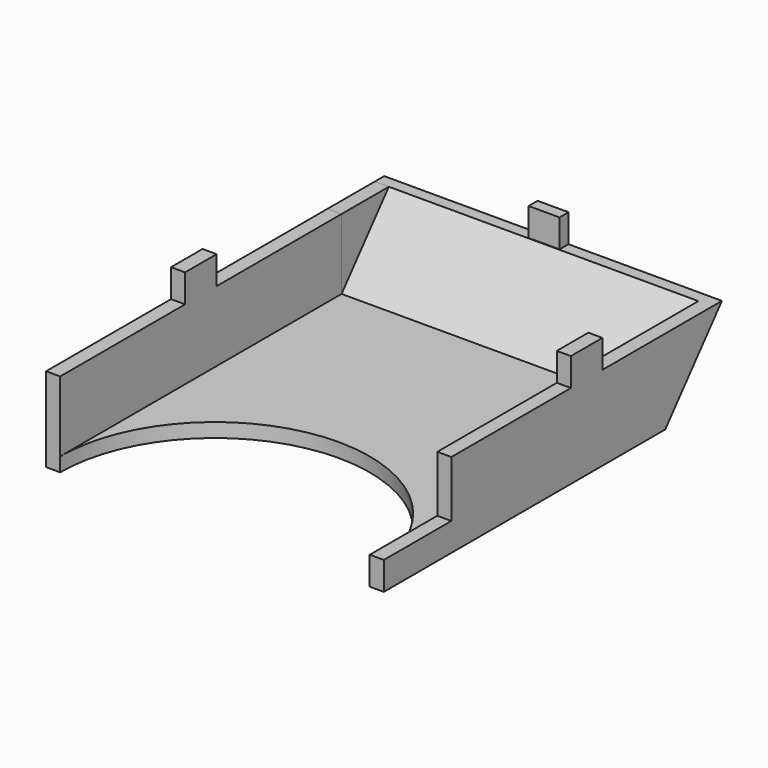
from build123d import *

# Parameters (mm, degrees)
F1_DEPTH  = 6.35
F0_W      = 6.35
F0_H      = 158.75
F2_DEPTH  = 38.1
F4_DEPTH  = 152.4
F5_DEPTH  = 6.35
F7_DEPTH  = 6.35
F8_W      = 6.35
F8_H      = 25.4
F9_DEPTH  = 38.1
F11_W     = 6.35
F11_H     = 17.78
F10_W     = 6.35
F10_H     = 17.78
F10_W_2   = 13.97
F10_H_2   = 5.08
F12_DEPTH = 12.7


with BuildPart() as f1:
    # F0 (on Top) → F1 (new body)
    with BuildSketch(Plane.XY):
        with BuildLine():
            Line((69.85, -79.375), (69.85, 79.375))
            Line((69.85, 79.375), (-69.85, 79.375))
            Line((-69.85, 79.375), (-69.85, -79.375))
            ThreePointArc((-69.85, -79.375), (0, -9.525), (69.85, -79.375))
        make_face()
    extrude(amount=F1_DEPTH)

    # F0 (on Top) → F2 (join)
    with BuildSketch(Plane.XY):
        with Locations((73.025, 0)):
            Rectangle(F0_W, F0_H)
        with Locations((-73.025, 0)):
            Rectangle(F0_W, F0_H)
    extrude(amount=F2_DEPTH)

    # F3 (on face) → F4 (join)
    with BuildSketch(Plane.YZ.offset(76.2)):
        Polygon((79.375, 6.35), (79.375, 0), (111.344696, 38.1), (106.016413, 38.1), align=None)
    extrude(amount=-F4_DEPTH)

    # F3 (on face) → F5 (join)
    with BuildSketch(Plane.YZ.offset(76.2)):
        Polygon((79.375, 38.1), (79.375, 6.35), (106.016413, 38.1), align=None)
    extrude(amount=-F5_DEPTH)

    # F8 (on face) → F9 (cut)
    with BuildSketch(Plane.XZ.offset(79.375)):
        with Locations((73.025, 25.4)):
            Rectangle(F8_W, F8_H)
    extrude(amount=-F9_DEPTH, mode=Mode.SUBTRACT)

    # F11 (on face) + F10 (on face) → F12 (join)
    with BuildSketch(Plane.XY.offset(38.1)):
        with Locations((-73.025, 0)):
            Rectangle(F11_W, F11_H)
    with BuildSketch(Plane.XY.offset(38.1)):
        with Locations((73.025, 35.034848)):
            Rectangle(F10_W, F10_H)
        with Locations((0, 108.804696)):
            Rectangle(F10_W_2, F10_H_2)
    extrude(amount=F12_DEPTH)


with BuildPart() as f7:
    # F6 (on face) → F7 (new body)
    with BuildSketch(Plane(origin=(-76.2, 0, 0), x_dir=(0, -1, 0), z_dir=(-1, 0, 0))):
        Polygon((-79.375, 6.35), (-79.375, 38.1), (-106.016413, 38.1), align=None)
    extrude(amount=-F7_DEPTH)


solid = Compound([f1.part, f7.part])
